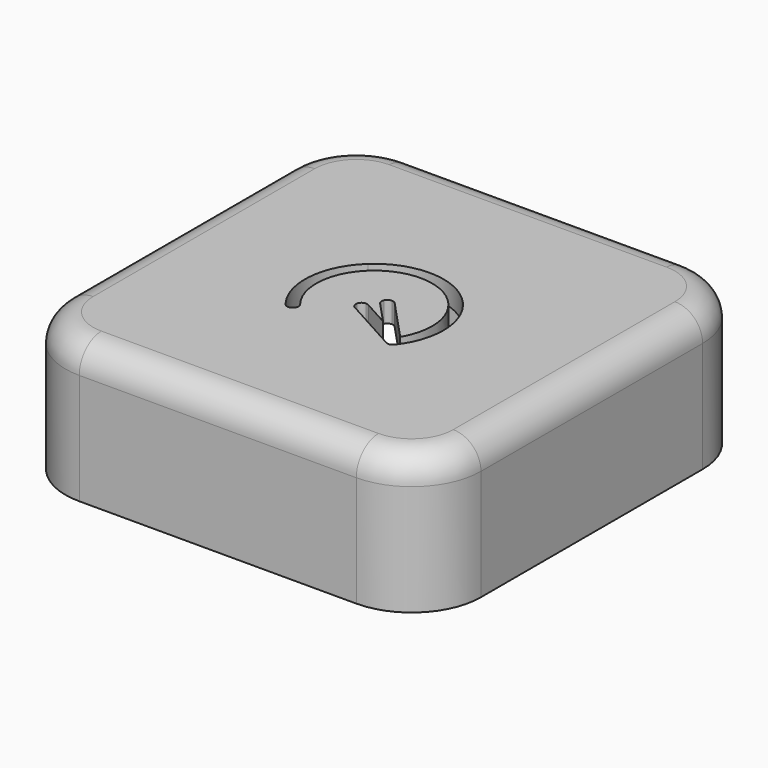
from build123d import *

# Parameters (mm, degrees)
F1_DEPTH = 25.4
F2_R     = 5.08
F3_T     = -3.81
F5_DEPTH = 25.4
F6_R     = 2.54
F7_DEPTH = 17.78


with BuildPart() as f1:
    # F0 (on Top) → F1 (new body)
    with BuildSketch(Plane.XY):
        with BuildLine():
            Line((25.4, 38.1), (-25.4, 38.1))
            ThreePointArc((-25.4, 38.1), (-34.3802561211, 34.3802561211), (-38.1, 25.4))
            Line((-38.1, 25.4), (-38.1, -25.4))
            ThreePointArc((-38.1, -25.4), (-34.3802561211, -34.3802561211), (-25.4, -38.1))
            Line((-25.4, -38.1), (25.4, -38.1))
            ThreePointArc((25.4, -38.1), (34.3802561211, -34.3802561211), (38.1, -25.4))
            Line((38.1, -25.4), (38.1, 25.4))
            ThreePointArc((38.1, 25.4), (34.3802561211, 34.3802561211), (25.4, 38.1))
        make_face()
    extrude(amount=F1_DEPTH)

    # F2
    f2_edges = [f1.edges().sort_by_distance(p)[0] for p in [
        (38.1, 0, 25.4),
        (34.380256, 34.380256, 25.4),
        (0, 38.1, 25.4),
        (-34.380256, 34.380256, 25.4),
        (-38.1, 0, 25.4),
        (-34.380256, -34.380256, 25.4),
        (0, -38.1, 25.4),
        (34.380256, -34.380256, 25.4),
    ]]
    fillet(f2_edges, radius=F2_R)

    # F3
    f3_openings = [f1.faces().sort_by_distance(p)[0] for p in [
        (0, 0, 0),
    ]]
    offset(amount=F3_T, openings=f3_openings)

    # F4 (on face) → F5 (cut)
    with BuildSketch(Plane.XY.offset(25.4)):
        with BuildLine():
            Line((0.4246118, -1.4201394), (4.1936994357, -5.4643198613))
            Line((4.1936994357, -5.4643198613), (8.8815200798, -8.0524681488))
            add(Edge.make_bspline(
                [(9.1138113757, -7.6827083681), (9.039182623, -7.8070784595), (8.9617544681, -7.9303596139), (8.8815200798, -8.0524681488)],
                knots=[0.9195596374, 0.9195596374, 0.9195596374, 0.9195596374, 0.9463869884, 0.9463869884, 0.9463869884, 0.9463869884], degree=3))
            Line((9.1138113757, -7.6827083681), (1.9512788, 0.0026416))
            add(Edge.make_bspline(
                [(1.9512788, 0.0026416), (1.7619218, 0.2116836), (1.4960092, 0.3351784), (1.2141454, 0.3449828)],
                knots=[0, 0, 0, 0, 1, 1, 1, 1], degree=3))
            add(Edge.make_bspline(
                [(1.2141454, 0.3449828), (0.7897114, 0.3597402), (0.3986784, 0.115824), (0.225298, -0.2718562)],
                knots=[0, 0, 0, 0, 1, 1, 1, 1], degree=3))
            add(Edge.make_bspline(
                [(0.225298, -0.2718562), (0.0518922, -0.659511), (0.1307084, -1.1135868), (0.4246118, -1.4201394)],
                knots=[0, 0, 0, 0, 1, 1, 1, 1], degree=3))
        make_face()
        with BuildLine():
            Line((-1.6572484, -4.6177454), (8.5419521802, -10.24880503))
            add(Edge.make_bspline(
                [(8.2110834, -9.8099118), (8.2814103347, -9.9862547299), (8.3968907519, -10.1366080425), (8.5419521802, -10.24880503)],
                knots=[0, 0, 0, 0, 0.5046986795, 0.5046986795, 0.5046986795, 0.5046986795], degree=3))
            add(Edge.make_bspline(
                [(8.1900591263, -9.7523601882), (8.1964785957, -9.7716701576), (8.203485455, -9.7908622412), (8.2110834, -9.8099118)],
                knots=[0.9454835626, 0.9454835626, 0.9454835626, 0.9454835626, 1, 1, 1, 1], degree=3))
            Line((8.1900591263, -9.7523601882), (4.1936994357, -5.4643198613))
            Line((4.1936994357, -5.4643198613), (-0.6486144, -2.7908758))
            add(Edge.make_bspline(
                [(-0.6486144, -2.7908758), (-0.8004556, -2.704211), (-0.9716262, -2.6570686), (-1.146429, -2.6538174)],
                knots=[0, 0, 0, 0, 1, 1, 1, 1], degree=3))
            add(Edge.make_bspline(
                [(-1.146429, -2.6538174), (-1.6287242, -2.6448512), (-2.0543266, -2.9676344), (-2.175764, -3.4344864)],
                knots=[0, 0, 0, 0, 1, 1, 1, 1], degree=3))
            add(Edge.make_bspline(
                [(-2.175764, -3.4344864), (-2.297176, -3.9013384), (-2.0828, -4.3905678), (-1.6572484, -4.6177454)],
                knots=[0, 0, 0, 0, 1, 1, 1, 1], degree=3))
        make_face()
        with BuildLine():
            add(Edge.make_bspline(
                [(8.6102698, 7.108952), (6.181471, 9.3476064), (3.0907736, 10.4669336), (5.08e-05, 10.4669336)],
                knots=[0, 0, 0, 0, 1, 1, 1, 1], degree=3))
            add(Edge.make_bspline(
                [(5.08e-05, 10.4669336), (-3.0906974, 10.4669336), (-6.181471, 9.3476064), (-8.6102698, 7.108952)],
                knots=[0, 0, 0, 0, 1, 1, 1, 1], degree=3))
            add(Edge.make_bspline(
                [(-8.6102698, 7.108952), (-13.4678674, 2.6316686), (-14.078458, -4.8488346), (-10.011283, -10.0546408)],
                knots=[0, 0, 0, 0, 1, 1, 1, 1], degree=3))
            add(Edge.make_bspline(
                [(-10.011283, -10.0546408), (-9.783699, -10.354183), (-9.4125288, -10.5080562), (-9.0397838, -10.4573832)],
                knots=[0, 0, 0, 0, 1, 1, 1, 1], degree=3))
            add(Edge.make_bspline(
                [(-9.0397838, -10.4573832), (-8.6670388, -10.4066848), (-8.3504024, -10.1593142), (-8.211058, -9.8099118)],
                knots=[0, 0, 0, 0, 1, 1, 1, 1], degree=3))
            add(Edge.make_bspline(
                [(-8.211058, -9.8099118), (-8.0717136, -9.460484), (-8.1312258, -9.063101), (-8.3668108, -8.7698326)],
                knots=[0, 0, 0, 0, 1, 1, 1, 1], degree=3))
            add(Edge.make_bspline(
                [(-8.3668108, -8.7698326), (-11.7766592, -4.4053506), (-11.268456, 1.820799), (-7.1959216, 5.5744872)],
                knots=[0, 0, 0, 0, 1, 1, 1, 1], degree=3))
            add(Edge.make_bspline(
                [(-7.1959216, 5.5744872), (-3.1233872, 9.3281754), (3.1233872, 9.3281754), (7.1959216, 5.5744872)],
                knots=[0, 0, 0, 0, 1, 1, 1, 1], degree=3))
            add(Edge.make_bspline(
                [(7.1959216, 5.5744872), (10.9408598562, 2.1227470399), (11.6718570321, -3.4196815744), (9.1138113757, -7.6827083681)],
                knots=[0, 0, 0, 0, 0.9195596374, 0.9195596374, 0.9195596374, 0.9195596374], degree=3))
            Line((9.1138113757, -7.6827083681), (9.9815396, -8.613775))
            add(Edge.make_bspline(
                [(10.228834, -9.6372934), (10.3371904, -9.2765118), (10.242677, -8.885301), (9.9815396, -8.613775)],
                knots=[0, 0, 0, 0, 1, 1, 1, 1], degree=3))
            add(Edge.make_bspline(
                [(9.7825474111, -10.2220382933), (9.9940940062, -10.0897595947), (10.1548421036, -9.8836728862), (10.228834, -9.6372934)],
                knots=[0.3171432756, 0.3171432756, 0.3171432756, 0.3171432756, 1, 1, 1, 1], degree=3))
            add(Edge.make_bspline(
                [(9.6844104, -10.2884224), (9.7185943146, -10.2680211517), (9.7513360067, -10.2458399401), (9.7825474111, -10.2220382933)],
                knots=[0, 0, 0, 0, 0.1057954098, 0.1057954098, 0.1057954098, 0.1057954098], degree=3))
            add(Edge.make_bspline(
                [(8.632571, -10.2988364), (8.9594182, -10.485247), (9.3613224, -10.4812846), (9.6844104, -10.2884224)],
                knots=[0, 0, 0, 0, 1, 1, 1, 1], degree=3))
            Line((8.632571, -10.2988364), (8.5419521802, -10.24880503))
            add(Edge.make_bspline(
                [(8.5419521802, -10.24880503), (8.6843126022, -10.3589129387), (8.8551627093, -10.4322722155), (9.0397838, -10.4573832)],
                knots=[0.5046986795, 0.5046986795, 0.5046986795, 0.5046986795, 1, 1, 1, 1], degree=3))
            add(Edge.make_bspline(
                [(9.0397838, -10.4573832), (9.4125288, -10.5080562), (9.783699, -10.354183), (10.011283, -10.0546408)],
                knots=[0, 0, 0, 0, 1, 1, 1, 1], degree=3))
            add(Edge.make_bspline(
                [(10.011283, -10.0546408), (14.078458, -4.8488346), (13.4678674, 2.6316686), (8.6102698, 7.108952)],
                knots=[0, 0, 0, 0, 1, 1, 1, 1], degree=3))
        make_face()
        with BuildLine():
            Line((4.1936994357, -5.4643198613), (8.1900591263, -9.7523601882))
            add(Edge.make_bspline(
                [(8.3668108, -8.7698326), (8.1440690549, -9.0471130516), (8.078725682, -9.4174656221), (8.1900591263, -9.7523601882)],
                knots=[0, 0, 0, 0, 0.9454835626, 0.9454835626, 0.9454835626, 0.9454835626], degree=3))
            add(Edge.make_bspline(
                [(8.8815200798, -8.0524681488), (8.7211759898, -8.2964954584), (8.5496244035, -8.535839576), (8.3668108, -8.7698326)],
                knots=[0.9463869884, 0.9463869884, 0.9463869884, 0.9463869884, 1, 1, 1, 1], degree=3))
            Line((8.8815200798, -8.0524681488), (4.1936994357, -5.4643198613))
        make_face()
        with BuildLine():
            add(Edge.make_bspline(
                [(9.7825474111, -10.2220382933), (10.0463526288, -10.0208618732), (10.2008344172, -9.7039219175), (10.1928168, -9.3675454)],
                knots=[0.1057954098, 0.1057954098, 0.1057954098, 0.1057954098, 1, 1, 1, 1], degree=3))
            add(Edge.make_bspline(
                [(9.7825474111, -10.2220382933), (9.9940940062, -10.0897595947), (10.1548421036, -9.8836728862), (10.228834, -9.6372934)],
                knots=[0.3171432756, 0.3171432756, 0.3171432756, 0.3171432756, 1, 1, 1, 1], degree=3))
            add(Edge.make_bspline(
                [(10.228834, -9.6372934), (10.3371904, -9.2765118), (10.242677, -8.885301), (9.9815396, -8.613775)],
                knots=[0, 0, 0, 0, 1, 1, 1, 1], degree=3))
            Line((9.9815396, -8.613775), (9.1138113757, -7.6827083681))
            add(Edge.make_bspline(
                [(9.1138113757, -7.6827083681), (9.039182623, -7.8070784595), (8.9617544681, -7.9303596139), (8.8815200798, -8.0524681488)],
                knots=[0.9195596374, 0.9195596374, 0.9195596374, 0.9195596374, 0.9463869884, 0.9463869884, 0.9463869884, 0.9463869884], degree=3))
            Line((8.8815200798, -8.0524681488), (9.641205, -8.4718906))
            add(Edge.make_bspline(
                [(10.1928168, -9.3675454), (10.183876, -8.9913714), (9.9731068, -8.6491572), (9.641205, -8.4718906)],
                knots=[0, 0, 0, 0, 1, 1, 1, 1], degree=3))
        make_face()
        with BuildLine():
            add(Edge.make_bspline(
                [(8.3668108, -8.7698326), (8.1440690549, -9.0471130516), (8.078725682, -9.4174656221), (8.1900591263, -9.7523601882)],
                knots=[0, 0, 0, 0, 0.9454835626, 0.9454835626, 0.9454835626, 0.9454835626], degree=3))
            Line((8.1900591263, -9.7523601882), (8.4549234, -10.036556))
            add(Edge.make_bspline(
                [(8.4549234, -10.036556), (8.7074248, -10.3161338), (9.0909902, -10.4379522), (9.4585282, -10.3552244)],
                knots=[0, 0, 0, 0, 1, 1, 1, 1], degree=3))
            add(Edge.make_bspline(
                [(9.4585282, -10.3552244), (9.5750904052, -10.3289878345), (9.6842975475, -10.2834732887), (9.7825474111, -10.2220382933)],
                knots=[0, 0, 0, 0, 0.3171432756, 0.3171432756, 0.3171432756, 0.3171432756], degree=3))
            add(Edge.make_bspline(
                [(9.7825474111, -10.2220382933), (10.0463526288, -10.0208618732), (10.2008344172, -9.7039219175), (10.1928168, -9.3675454)],
                knots=[0.1057954098, 0.1057954098, 0.1057954098, 0.1057954098, 1, 1, 1, 1], degree=3))
            add(Edge.make_bspline(
                [(10.1928168, -9.3675454), (10.183876, -8.9913714), (9.9731068, -8.6491572), (9.641205, -8.4718906)],
                knots=[0, 0, 0, 0, 1, 1, 1, 1], degree=3))
            Line((9.641205, -8.4718906), (8.8815200798, -8.0524681488))
            add(Edge.make_bspline(
                [(8.8815200798, -8.0524681488), (8.7211759898, -8.2964954584), (8.5496244035, -8.535839576), (8.3668108, -8.7698326)],
                knots=[0.9463869884, 0.9463869884, 0.9463869884, 0.9463869884, 1, 1, 1, 1], degree=3))
        make_face()
        with BuildLine():
            add(Edge.make_bspline(
                [(8.2110834, -9.8099118), (8.2814103347, -9.9862547299), (8.3968907519, -10.1366080425), (8.5419521802, -10.24880503)],
                knots=[0, 0, 0, 0, 0.5046986795, 0.5046986795, 0.5046986795, 0.5046986795], degree=3))
            Line((8.5419521802, -10.24880503), (8.632571, -10.2988364))
            add(Edge.make_bspline(
                [(8.632571, -10.2988364), (8.9594182, -10.485247), (9.3613224, -10.4812846), (9.6844104, -10.2884224)],
                knots=[0, 0, 0, 0, 1, 1, 1, 1], degree=3))
            add(Edge.make_bspline(
                [(9.6844104, -10.2884224), (9.7185943146, -10.2680211517), (9.7513360067, -10.2458399401), (9.7825474111, -10.2220382933)],
                knots=[0, 0, 0, 0, 0.1057954098, 0.1057954098, 0.1057954098, 0.1057954098], degree=3))
            add(Edge.make_bspline(
                [(9.4585282, -10.3552244), (9.5750904052, -10.3289878345), (9.6842975475, -10.2834732887), (9.7825474111, -10.2220382933)],
                knots=[0, 0, 0, 0, 0.3171432756, 0.3171432756, 0.3171432756, 0.3171432756], degree=3))
            add(Edge.make_bspline(
                [(8.4549234, -10.036556), (8.7074248, -10.3161338), (9.0909902, -10.4379522), (9.4585282, -10.3552244)],
                knots=[0, 0, 0, 0, 1, 1, 1, 1], degree=3))
            Line((8.4549234, -10.036556), (8.1900591263, -9.7523601882))
            add(Edge.make_bspline(
                [(8.1900591263, -9.7523601882), (8.1964785957, -9.7716701576), (8.203485455, -9.7908622412), (8.2110834, -9.8099118)],
                knots=[0.9454835626, 0.9454835626, 0.9454835626, 0.9454835626, 1, 1, 1, 1], degree=3))
        make_face()
    extrude(amount=-F5_DEPTH, mode=Mode.SUBTRACT)

    # F6 (on face) → F7 (join)
    with BuildSketch(Plane(origin=(0, 0, 21.59), x_dir=(1, 0, 0), z_dir=(0, 0, -1))):
        with Locations((-33.02, -25.4)):
            Circle(F6_R)
        with Locations((-25.4, 33.02)):
            Circle(F6_R)
        with Locations((33.02, 25.4)):
            Circle(F6_R)
        with Locations((25.4, -33.02)):
            Circle(F6_R)
    extrude(amount=F7_DEPTH)


solid = f1.part
